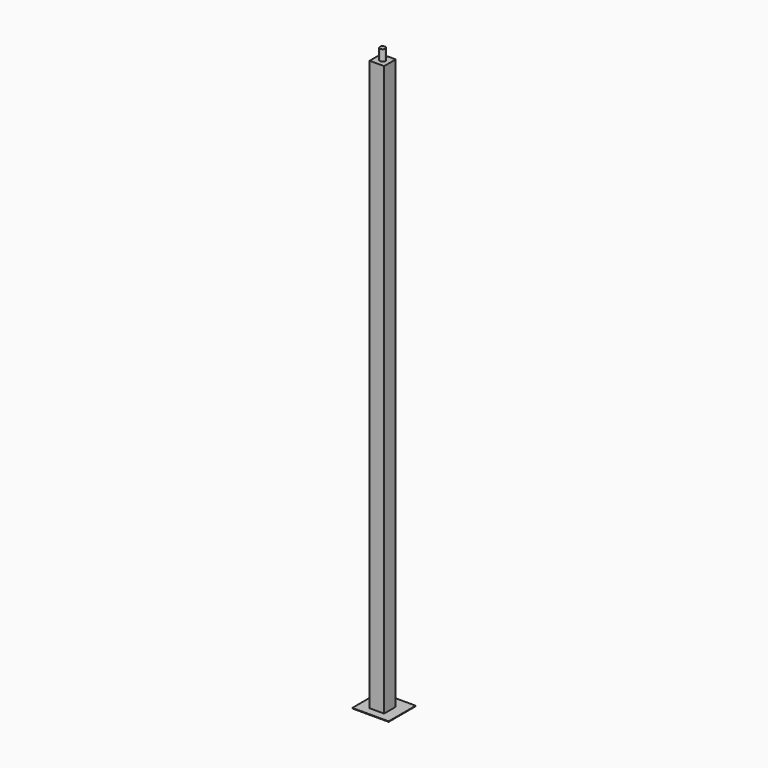
from build123d import *

# Parameters (mm, degrees)
F0_W     = 200
F0_H     = 186.111076
F1_DEPTH = 3
F2_W     = 80
F2_H     = 80
F3_DEPTH = 3197
F4_W     = 80
F4_H     = 80
F4_R     = 15
F5_DEPTH = 60


with BuildPart() as f1:
    # F0 (on Top) → F1 (new body)
    with BuildSketch(Plane.XY):
        Rectangle(F0_W, F0_H)
    extrude(amount=F1_DEPTH)

    # F2 (on face) → F3 (join)
    with BuildSketch(Plane.XY.offset(3)):
        with Locations((0, -9.320797)):
            Rectangle(F2_W, F2_H)
    extrude(amount=F3_DEPTH)

    # F4 (on face) → F5 (cut)
    with BuildSketch(Plane.XY.offset(3200)):
        with Locations((0, -9.320797)):
            Rectangle(F4_W, F4_H)
        with Locations((0, -9.320797)):
            Circle(F4_R, mode=Mode.SUBTRACT)
    extrude(amount=-F5_DEPTH, mode=Mode.SUBTRACT)


solid = f1.part
